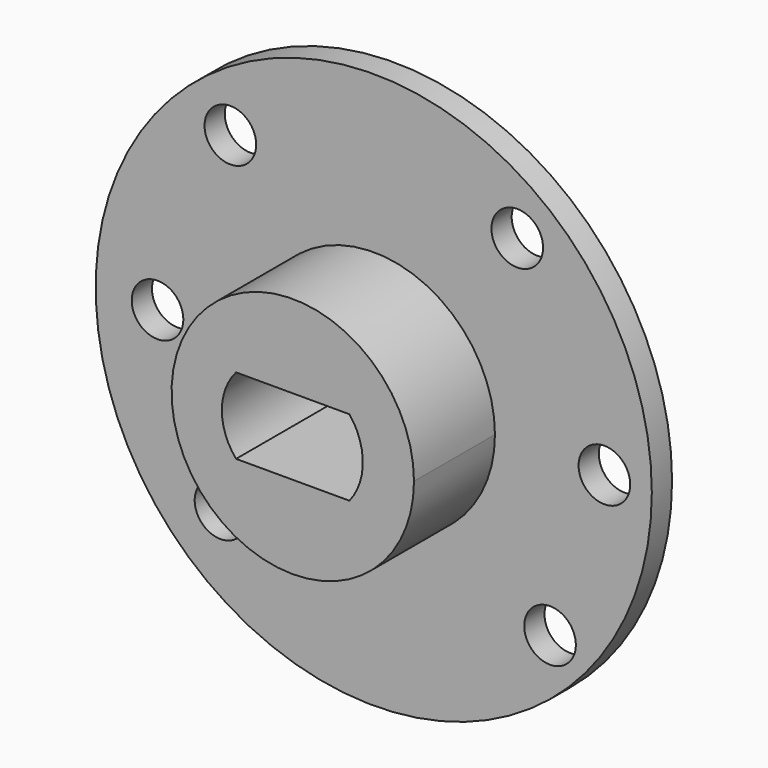
from build123d import *

# Parameters (mm, degrees)
F0_R     = 27.915075
F0_R_2   = 2.5908
F1_DEPTH = 2.54
F2_DEPTH = 12.7


with BuildPart() as f1:
    # F0 (on Front) → F1 (new body)
    with BuildSketch(Plane.XZ):
        Circle(F0_R)
        with Locations((-15.382989, -15.604813)):
            Circle(F0_R_2, mode=Mode.SUBTRACT)
        with Locations((17.697784, -15.951209)):
            Circle(F0_R_2, mode=Mode.SUBTRACT)
        with Locations((-21.704708, 0)):
            Circle(F0_R_2, mode=Mode.SUBTRACT)
        with Locations((-14.393652, 17.822405)):
            Circle(F0_R_2, mode=Mode.SUBTRACT)
        with BuildLine():
            ThreePointArc((2.946903, -11.804318), (-9.588533, 7.489071), (12.1666, 0))
            ThreePointArc((12.1666, 0), (9.588533, -7.489071), (2.946903, -11.804318))
        make_face(mode=Mode.SUBTRACT)
        with Locations((23.153512, 0)):
            Circle(F0_R_2, mode=Mode.SUBTRACT)
        with Locations((14.407024, 18.082151)):
            Circle(F0_R_2, mode=Mode.SUBTRACT)
        with BuildLine():
            ThreePointArc((2.946903, -11.804318), (9.588533, -7.489071), (12.1666, 0))
            ThreePointArc((12.1666, 0), (-9.588533, 7.489071), (2.946903, -11.804318))
        make_face()
        with BuildLine():
            Line((5.690292, -3.821457), (2.946903, -3.821457))
            Line((2.946903, -3.821457), (-2.879617, -3.821457))
            Line((-2.879617, -3.821457), (-5.690292, -3.821457))
            ThreePointArc((-5.690292, -3.821457), (-7.120046, 0), (-5.690292, 3.821457))
            Line((-5.690292, 3.821457), (5.690292, 3.821457))
            ThreePointArc((5.690292, 3.821457), (7.029738, 0), (5.690292, -3.821457))
        make_face(mode=Mode.SUBTRACT)
        with BuildLine():
            ThreePointArc((2.946903, -11.804318), (9.588533, -7.489071), (12.1666, 0))
            ThreePointArc((12.1666, 0), (-9.588533, 7.489071), (2.946903, -11.804318))
        make_face()
        with BuildLine():
            Line((5.690292, -3.821457), (2.946903, -3.821457))
            Line((2.946903, -3.821457), (-2.879617, -3.821457))
            Line((-2.879617, -3.821457), (-5.690292, -3.821457))
            ThreePointArc((-5.690292, -3.821457), (-7.120046, 0), (-5.690292, 3.821457))
            Line((-5.690292, 3.821457), (5.690292, 3.821457))
            ThreePointArc((5.690292, 3.821457), (7.029738, 0), (5.690292, -3.821457))
        make_face(mode=Mode.SUBTRACT)
    extrude(amount=F1_DEPTH)

    # F0 (on Front) → F2 (join)
    with BuildSketch(Plane.XZ):
        with BuildLine():
            ThreePointArc((2.946903, -11.804318), (9.588533, -7.489071), (12.1666, 0))
            ThreePointArc((12.1666, 0), (-9.588533, 7.489071), (2.946903, -11.804318))
        make_face()
        with BuildLine():
            Line((5.690292, -3.821457), (2.946903, -3.821457))
            Line((2.946903, -3.821457), (-2.879617, -3.821457))
            Line((-2.879617, -3.821457), (-5.690292, -3.821457))
            ThreePointArc((-5.690292, -3.821457), (-7.120046, 0), (-5.690292, 3.821457))
            Line((-5.690292, 3.821457), (5.690292, 3.821457))
            ThreePointArc((5.690292, 3.821457), (7.029738, 0), (5.690292, -3.821457))
        make_face(mode=Mode.SUBTRACT)
    extrude(amount=F2_DEPTH)


solid = f1.part
